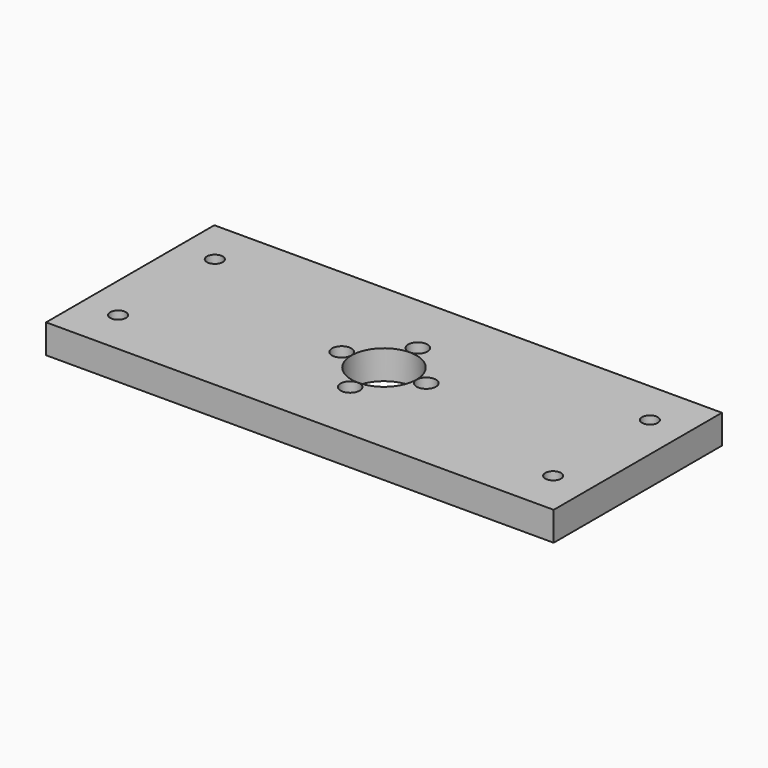
from build123d import *

# Parameters (mm, degrees)
F0_W      = 210
F0_H      = 87
F1_DEPTH  = 12
F2_R      = 3.25
F3_DEPTH  = 12.001
F4_R      = 13.5
F5_DEPTH  = 12.001
F6_R      = 3
F7_DEPTH  = 12.001
F8_R      = 3.995
F9_DEPTH  = 5
F10_R     = 6
F11_DEPTH = 8


with BuildPart() as f1:
    # F0 (on Top) → F1 (new body)
    with BuildSketch(Plane.XY):
        with Locations((105, 43.5)):
            Rectangle(F0_W, F0_H)
    extrude(amount=F1_DEPTH)

    # F2 (on face) → F3 (cut, through all)
    with BuildSketch(Plane.XY.offset(12)):
        with Locations((15, 68.5)):
            Circle(F2_R)
        with Locations((195, 68.5)):
            Circle(F2_R)
        with Locations((195, 18.5)):
            Circle(F2_R)
        with Locations((15, 18.5)):
            Circle(F2_R)
    extrude(amount=-F3_DEPTH, mode=Mode.SUBTRACT)

    # F4 (on face) → F5 (cut, through all)
    with BuildSketch(Plane.XY.offset(12)):
        with Locations((105, 43.5)):
            Circle(F4_R)
    extrude(amount=-F5_DEPTH, mode=Mode.SUBTRACT)

    # F6 (on face) → F7 (cut, through all)
    with BuildSketch(Plane.XY.offset(12)):
        with Locations((105, 61)):
            Circle(F6_R)
        with Locations((87.5, 43.5)):
            Circle(F6_R)
        with Locations((105, 26)):
            Circle(F6_R)
        with Locations((122.5, 43.5)):
            Circle(F6_R)
    extrude(amount=-F7_DEPTH, mode=Mode.SUBTRACT)

    # F8 (on face) → F9 (cut)
    with BuildSketch(Plane.XY.offset(12)):
        with Locations((105, 61)):
            Circle(F8_R)
        with Locations((87.5, 43.5)):
            Circle(F8_R)
        with Locations((105, 26)):
            Circle(F8_R)
        with Locations((122.5, 43.5)):
            Circle(F8_R)
    extrude(amount=-F9_DEPTH, mode=Mode.SUBTRACT)

    # F10 (on face) → F11 (cut)
    with BuildSketch(Plane(origin=(0, 0, 0), x_dir=(1, 0, 0), z_dir=(0, 0, -1))):
        with Locations((15, -18.5)):
            Circle(F10_R)
        with Locations((15, -68.5)):
            Circle(F10_R)
        with Locations((195, -18.5)):
            Circle(F10_R)
        with Locations((195, -68.5)):
            Circle(F10_R)
    extrude(amount=-F11_DEPTH, mode=Mode.SUBTRACT)


solid = f1.part
